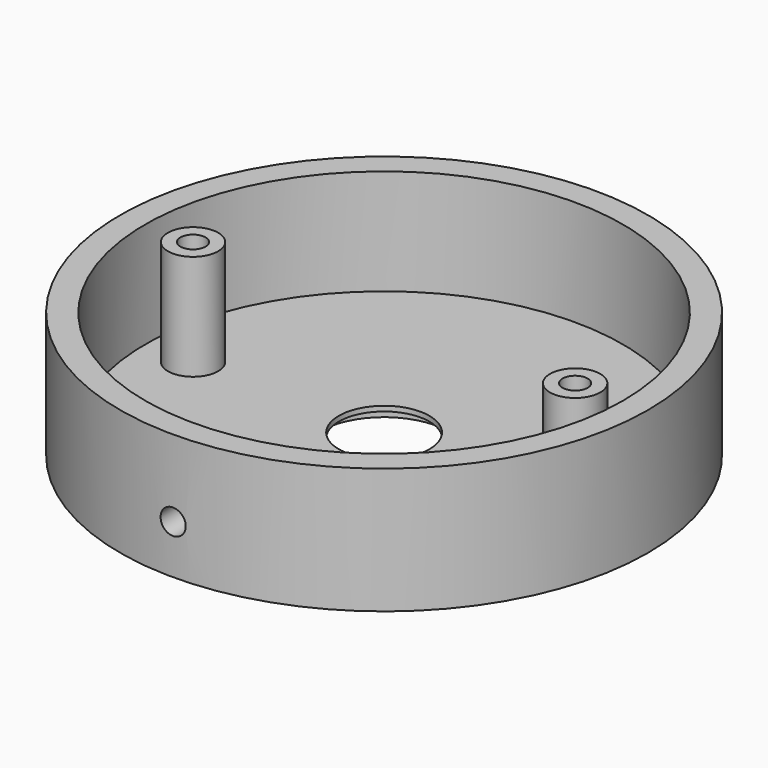
from build123d import *

# Parameters (mm, degrees)
F0_R      = 47.5
F0_R_2    = 2.5
F0_R_3    = 9
F1_DEPTH  = 4
F0_R_4    = 52.5
F2_DEPTH  = 22
F3_DEPTH  = 25
F5_R      = 12.8477395495
F6_DEPTH  = 3
F8_DEPTH  = 3
F9_R      = 5
F9_R_2    = 2.5
F10_DEPTH = 21
F4_R      = 2.5
F11_DEPTH = 30
F14_D     = 5
F14_DEPTH = 10
F14_START = 0.2595577
F14_TIP   = 1.5021515476


with BuildPart() as f1:
    # F0 (on Top) → F1 (new body)
    with BuildSketch(Plane.XY):
        Circle(F0_R)
        with Locations((-38, 0)):
            Circle(F0_R_2, mode=Mode.SUBTRACT)
        Circle(F0_R_3, mode=Mode.SUBTRACT)
        with Locations((38, 0)):
            Circle(F0_R_2, mode=Mode.SUBTRACT)
    extrude(amount=F1_DEPTH)

    # F0 (on Top) → F2 (join)
    with BuildSketch(Plane.XY):
        Circle(F0_R_4)
        Circle(F0_R, mode=Mode.SUBTRACT)
    extrude(amount=F2_DEPTH)

    # F0 (on Top) → F3 (join)
    with BuildSketch(Plane.XY):
        Circle(F0_R_4)
        Circle(F0_R, mode=Mode.SUBTRACT)
    extrude(amount=F3_DEPTH)

    # F5 (on face) → F6 (cut)
    with BuildSketch(Plane(origin=(0, 0, 0), x_dir=(1, 0, 0), z_dir=(0, 0, -1))):
        Circle(F5_R)
    extrude(amount=-F6_DEPTH, mode=Mode.SUBTRACT)

    # F7 (on face) → F8 (cut)
    with BuildSketch(Plane(origin=(0, 0, 0), x_dir=(1, 0, 0), z_dir=(0, 0, -1))):
        Polygon((37.3229600728, -4.5689112784), (41.6182732711, -2.8707894156), (42.2953131984, 1.6981218628), (38.6770399272, 4.5689112784), (34.3817267289, 2.8707894156), (33.7046868016, -1.6981218628), align=None)
        Polygon((-40.3094010768, -4), (-35.6905989232, -4), (-33.3811978465, 0), (-35.6905989232, 4), (-40.3094010768, 4), (-42.6188021535, 0), align=None)
    extrude(amount=-F8_DEPTH, mode=Mode.SUBTRACT)

    # F9 (on face) → F10 (join)
    with BuildSketch(Plane.XY.offset(4)):
        with Locations((38, 0)):
            Circle(F9_R)
        with Locations((38, 0)):
            Circle(F9_R_2, mode=Mode.SUBTRACT)
        with Locations((-38, 0)):
            Circle(F9_R)
        with Locations((-38, 0)):
            Circle(F9_R_2, mode=Mode.SUBTRACT)
        with Locations((38, 0)):
            Circle(F9_R_2)
        with Locations((-38, 0)):
            Circle(F9_R_2)
    extrude(amount=F10_DEPTH)

    # F4 (on face) → F11 (cut)
    with BuildSketch(Plane(origin=(0, 0, 0), x_dir=(1, 0, 0), z_dir=(0, 0, -1))):
        with Locations((-38, 0)):
            Circle(F4_R)
        with Locations((38, 0)):
            Circle(F4_R)
    extrude(amount=-F11_DEPTH, mode=Mode.SUBTRACT)

    # F14
    # its depths count from where the whole tool has entered the part; down to there all is cleared
    with Locations(Plane.XZ.offset(52.7).offset(-F14_START)):
        with Locations((0, 9.7180558369)):
            Hole(F14_D / 2, depth=F14_DEPTH)
            with Locations((0, 0, -(F14_DEPTH + F14_TIP / 2))):  # 118° drill point
                Cone(0, F14_D / 2, F14_TIP, mode=Mode.SUBTRACT)


solid = f1.part
